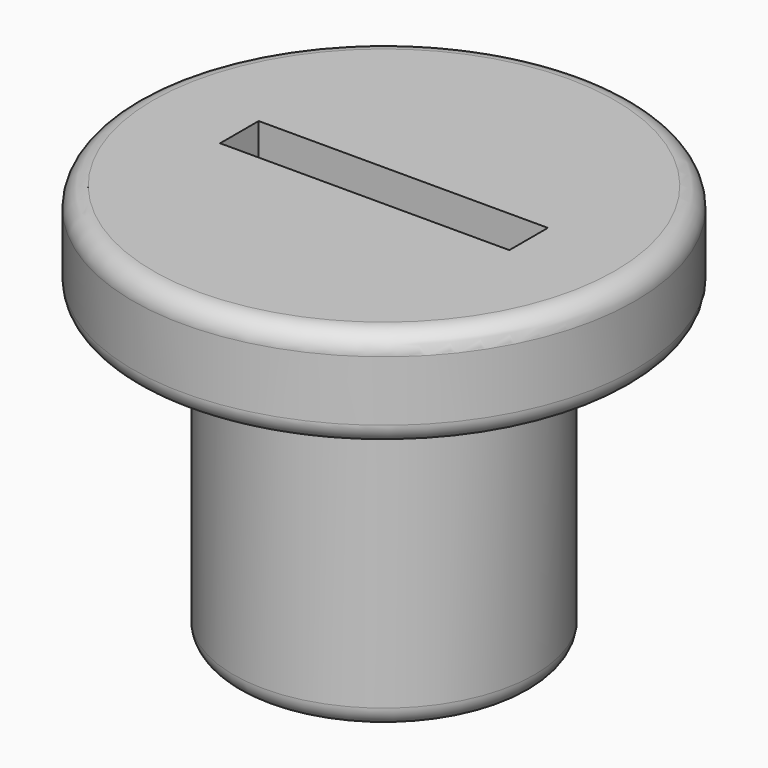
from build123d import *

# Parameters (mm, degrees)
F0_R     = 12.5
F1_DEPTH = 20
F2_W     = 14.4
F2_H     = 2.4
F3_DEPTH = 5
F4_R     = 12.5
F4_R_2   = 7.5
F5_DEPTH = 15
F6_W     = 11.4
F6_H     = 2.4
F7_DEPTH = 15.001
F8_R     = 2
F9_R     = 1


with BuildPart() as f1:
    # F0 (on Top) → F1 (new body)
    with BuildSketch(Plane.XY):
        Circle(F0_R)
    extrude(amount=F1_DEPTH)

    # F2 (on face) → F3 (cut)
    with BuildSketch(Plane.XY.offset(20)):
        Rectangle(F2_W, F2_H)
    extrude(amount=-F3_DEPTH, mode=Mode.SUBTRACT)

    # F4 (on face) → F5 (cut)
    with BuildSketch(Plane(origin=(0, 0, 0), x_dir=(1, 0, 0), z_dir=(0, 0, -1))):
        Circle(F4_R)
        Circle(F4_R_2, mode=Mode.SUBTRACT)
    extrude(amount=-F5_DEPTH, mode=Mode.SUBTRACT)

    # F6 (on face) → F7 (cut, through all)
    with BuildSketch(Plane.XY.offset(15)):
        Rectangle(F6_W, F6_H)
    extrude(amount=-F7_DEPTH, mode=Mode.SUBTRACT)

    # F8
    f8_edges = [f1.edges().sort_by_distance(p)[0] for p in [
        (-7.5, 0, 15),
    ]]
    fillet(f8_edges, radius=F8_R)

    # F9
    f9_edges = [f1.edges().sort_by_distance(p)[0] for p in [
        (-12.5, 0, 20),
        (-12.5, 0, 15),
        (-7.5, 0, 0),
    ]]
    fillet(f9_edges, radius=F9_R)


solid = f1.part
